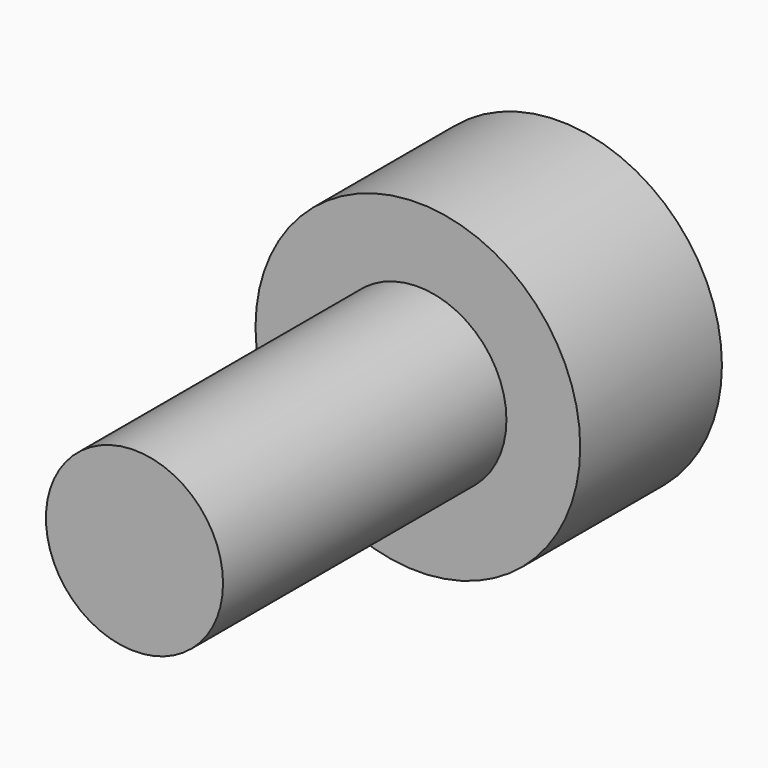
from build123d import *

# Parameters (mm, degrees)
SKETCH001_R             = 2.75
PAD_DEPTH               = 3
SKETCH002_R             = 1.5
PAD001_DEPTH            = 6
POCKET_DEPTH            = 4
BODY001_PLACEMENT_ANGLE = 270


with BuildPart() as part:
    # Sketch001 → Pad (new body)
    with BuildSketch(Plane.XY):
        Circle(SKETCH001_R)
    extrude(amount=PAD_DEPTH)

    # Sketch002 (on Face2 of Pad) → Pad001 (join)
    with BuildSketch(Plane(origin=(0, 0, 0), x_dir=(1, 0, 0), z_dir=(0, 0, -1))):
        Circle(SKETCH002_R)
    extrude(amount=PAD001_DEPTH)

    # Sketch003 (on DatumPlane) → Pocket (cut)
    with BuildSketch(Plane.XY.offset(3)):
        Polygon((0.721688, -1.25), (1.443376, 0), (0.721688, 1.25), (-0.721688, 1.25), (-1.443376, 0), (-0.721688, -1.25), align=None)
    extrude(amount=-POCKET_DEPTH, mode=Mode.SUBTRACT)


with BuildPart() as part_1:
    # Body001 placement: moved
    add(part.part.moved(Location((6.5, 1.35, -19.25))).rotate(Axis((6.5, 1.35, -19.25), (1, 0, 0)), BODY001_PLACEMENT_ANGLE))


solid = part_1.part
